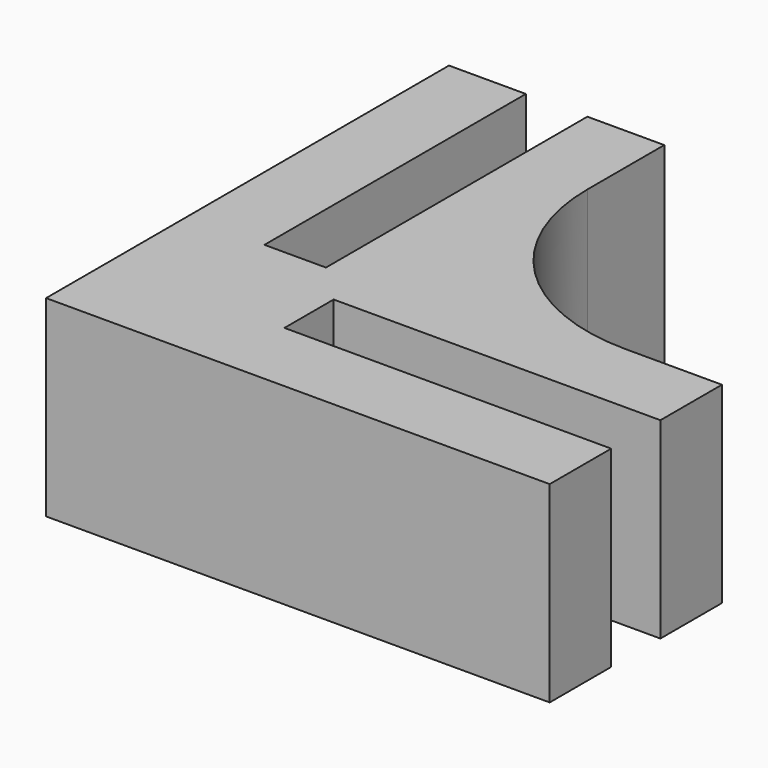
from build123d import *

# Parameters (mm, degrees)
F2_DEPTH = 10
F3_R     = 10


with BuildPart() as f2:
    # F1 (on Top) → F2 (new body)
    with BuildSketch(Plane.XY):
        Polygon((2, 20.6), (-2, 20.6), (-2, 3.6), (-5.2, 3.6), (-5.2, 20.6), (-9.2, 20.6), (-9.2, -5.6), (17, -5.6), (17, -1.6), (0, -1.6), (0, 1.6), (17, 1.6), (17, 5.6), (2, 5.6), align=None)
    extrude(amount=F2_DEPTH)

    # F3
    f3_edges = [f2.edges().sort_by_distance(p)[0] for p in [
        (2, 5.6, 5),
    ]]
    fillet(f3_edges, radius=F3_R)


solid = f2.part
